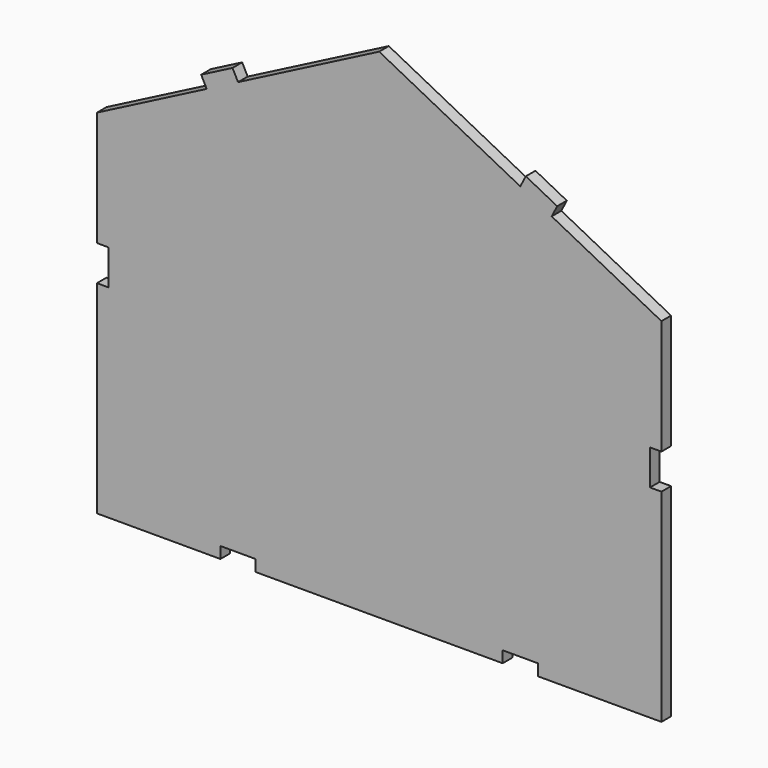
from build123d import *

# Parameters (mm, degrees)
F0_W     = 12.7
F0_H     = 4.3434
F1_DEPTH = 4.3434
F2_W     = 4.3434
F2_H     = 12.7
F3_DEPTH = 4.3444
F5_DEPTH = 4.3444


with BuildPart() as f1:
    # F0 (on Front) → F1 (new body)
    with BuildSketch(Plane.XZ):
        Polygon((50.8, 74.088349), (0, 100.27007), (-50.8, 74.088349), (-62.088889, 68.270189), (-101.6, 47.906629), (-101.6, -79.093371), (-57.15, -79.093371), (-57.15, -74.749971), (-44.45, -74.749971), (-44.45, -79.093371), (44.45, -79.093371), (44.45, -74.749971), (57.15, -74.749971), (57.15, -79.093371), (101.6, -79.093371), (101.6, 47.906629), (62.088889, 68.270189), align=None)
        Polygon((-62.088889, 68.270189), (-50.8, 74.088349), (-52.789811, 77.949149), (-64.0787, 72.130989), align=None)
        Polygon((52.789811, 77.949149), (50.8, 74.088349), (62.088889, 68.270189), (64.0787, 72.130989), align=None)
        with Locations((-50.8, -76.921671)):
            Rectangle(F0_W, F0_H)
        Polygon((50.8, -79.093371), (57.15, -79.093371), (57.15, -74.749971), (44.45, -74.749971), (44.45, -79.093371), align=None)
    extrude(amount=-F1_DEPTH)

    # F2 (on Front) → F3 (cut, through all)
    with BuildSketch(Plane.XZ):
        with Locations((-99.660009, 0.220258)):
            Rectangle(F2_W, F2_H)
        with Locations((99.660009, 0.220258)):
            Rectangle(F2_W, F2_H)
    extrude(amount=-F3_DEPTH, mode=Mode.SUBTRACT)

    # F4 (on Front) → F5 (cut, through all)
    with BuildSketch(Plane.XZ):
        Polygon((-57.15, -79.316832), (-50.8, -79.316832), (-44.45, -79.316832), (-44.45, -74.973432), (-50.8, -74.973432), (-57.15, -74.973432), align=None)
        Polygon((57.15, -79.316832), (57.15, -74.973432), (50.8, -74.973432), (44.45, -74.973432), (44.45, -79.316832), (50.8, -79.316832), align=None)
    extrude(amount=-F5_DEPTH, mode=Mode.SUBTRACT)


solid = f1.part
